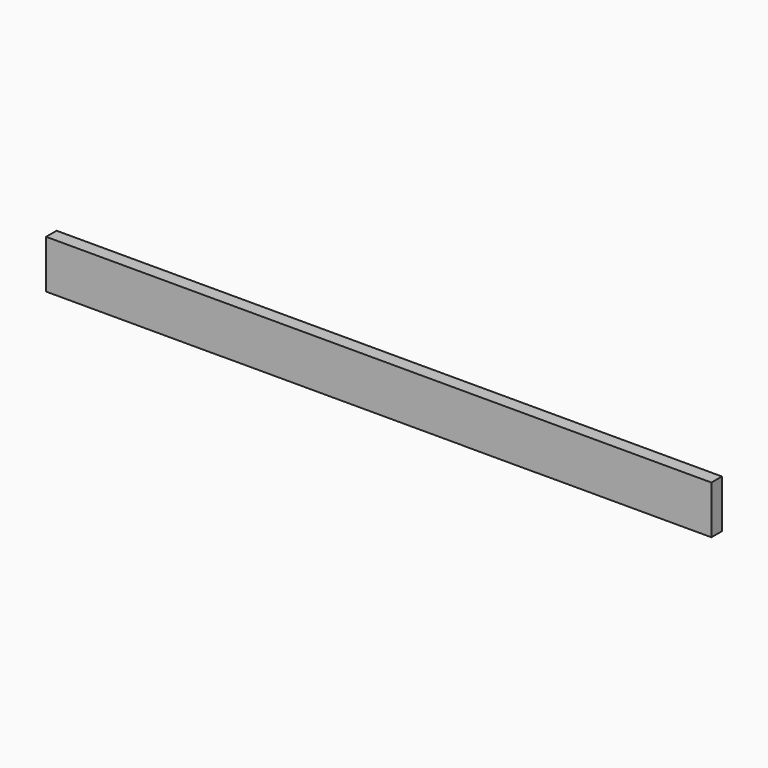
from build123d import *

# Parameters (mm, degrees)
F0_W     = 123.2817098498
F0_H     = 34.8924547434
F0_W_2   = 51.606297493
F1_DEPTH = 9.525


with BuildPart() as f1:
    # F0 (on Front) → F1 (new body)
    with BuildSketch(Plane.XZ):
        with Locations((61.6408549249, -17.4462273717)):
            Rectangle(F0_W, F0_H)
        with Locations((-25.8031487465, -17.4462273717)):
            Rectangle(F0_W_2, F0_H)
        Polygon((174.4101792574, 0), (123.2817098498, 0), (123.2817098498, -34.8924547434), (123.2817098498, -34.9458605051), (174.4101792574, -34.9458605051), (174.4101792574, -34.8924547434), (174.4101792574, -34.7419455647), align=None)
        Polygon((-51.606297493, -34.8924547434), (-51.606297493, 0), (-179.6663552523, 0), (-179.6663552523, -34.9458605051), (-51.606297493, -34.9458605051), align=None)
        Polygon((301.7865717411, 0), (174.4101792574, 0), (174.4101792574, -34.7419455647), (174.4101792574, -34.8924547434), (301.7865717411, -34.8924547434), align=None)
    extrude(amount=F1_DEPTH)


solid = f1.part
